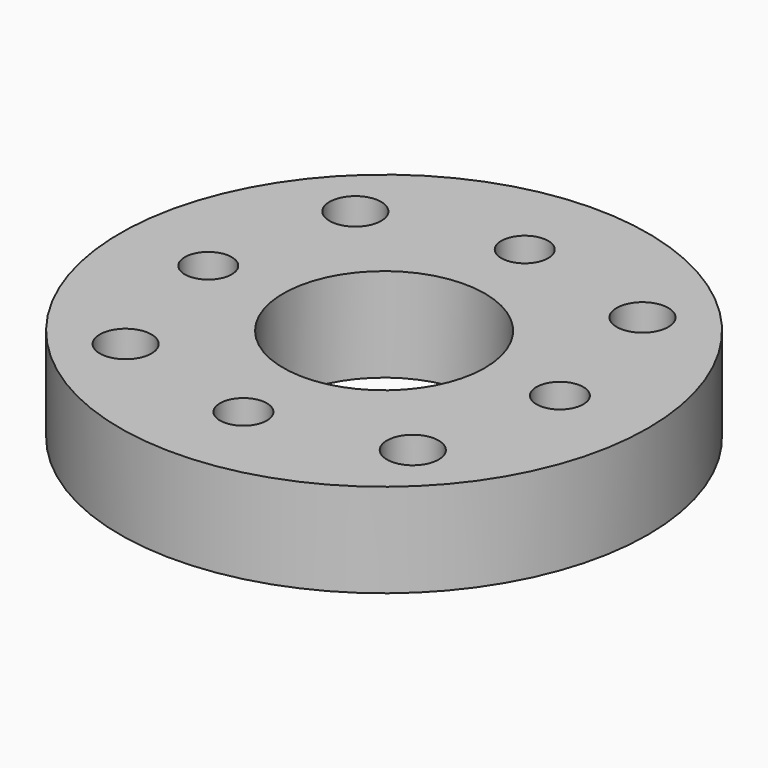
from build123d import *

# Parameters (mm, degrees)
F0_R     = 71.5
F0_R_2   = 7
F0_R_3   = 6.35
F0_R_4   = 27.305
F1_DEPTH = 25.4


with BuildPart() as f1:
    # F0 (on Top) → F1 (new body)
    with BuildSketch(Plane.XY):
        Circle(F0_R)
        with Locations((-38.890873, -38.890873)):
            Circle(F0_R_2, mode=Mode.SUBTRACT)
        with Locations((0, -47.625)):
            Circle(F0_R_3, mode=Mode.SUBTRACT)
        with Locations((38.890873, -38.890873)):
            Circle(F0_R_2, mode=Mode.SUBTRACT)
        with Locations((-47.625, 0)):
            Circle(F0_R_3, mode=Mode.SUBTRACT)
        with Locations((-38.890873, 38.890873)):
            Circle(F0_R_2, mode=Mode.SUBTRACT)
        Circle(F0_R_4, mode=Mode.SUBTRACT)
        with Locations((47.625, 0)):
            Circle(F0_R_3, mode=Mode.SUBTRACT)
        with Locations((0, 47.625)):
            Circle(F0_R_3, mode=Mode.SUBTRACT)
        with Locations((38.890873, 38.890873)):
            Circle(F0_R_2, mode=Mode.SUBTRACT)
    extrude(amount=F1_DEPTH)


solid = f1.part
